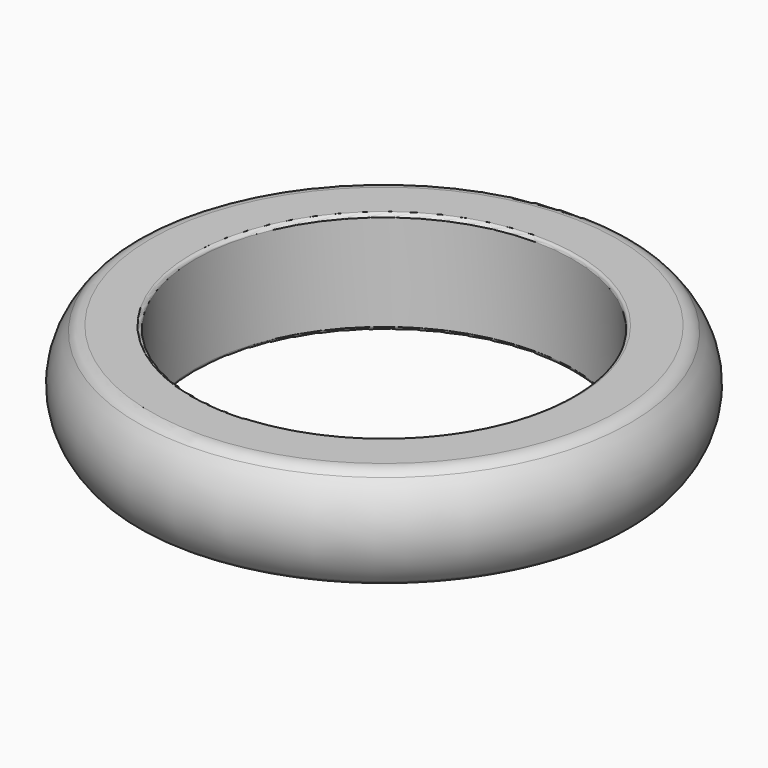
from build123d import *


with BuildPart() as f1:
    # F0 (on Front) → F1 (revolve)
    with BuildSketch(Plane.XZ):
        with BuildLine():
            ThreePointArc((-0.2, 0), (-0.058579, 0.058579), (0, 0.2))
            Line((0, 0.2), (0, 5.8))
            ThreePointArc((0, 5.8), (-0.058579, 5.941421), (-0.2, 6))
            Line((-0.2, 6), (-2.590317, 6))
            ThreePointArc((-2.590317, 6), (-2.998565, 5.912871), (-3.335673, 5.666667))
            ThreePointArc((-3.335673, 5.666667), (-4.354249, 3), (-3.335673, 0.333333))
            ThreePointArc((-3.335673, 0.333333), (-2.998565, 0.087129), (-2.590317, 0))
            Line((-2.590317, 0), (-0.2, 0))
        make_face()
    revolve(axis=Axis((11, 0, 3), (0, 0, 1)))


solid = f1.part
